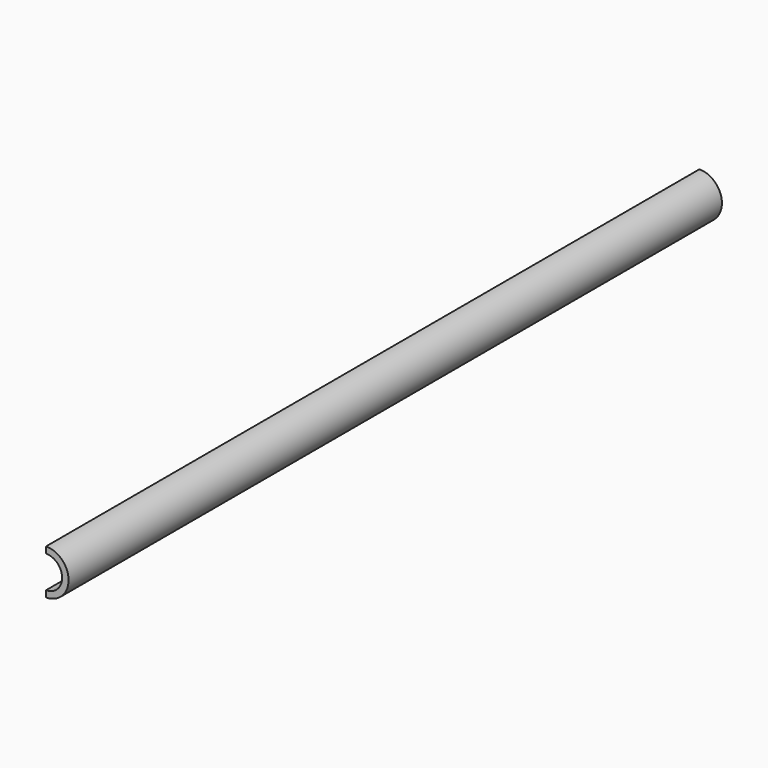
from build123d import *

# Parameters (mm, degrees)
F0_R     = 13.9954
F0_R_2   = 9.9949
F1_DEPTH = 508
F2_W     = 526.277456
F2_H     = 54.210538
F3_DEPTH = 25.4


with BuildPart() as f1:
    # F0 (on Front) → F1 (new body)
    with BuildSketch(Plane.XZ):
        Circle(F0_R)
        Circle(F0_R_2, mode=Mode.SUBTRACT)
    extrude(amount=F1_DEPTH)

    # F2 (on Right) → F3 (cut)
    with BuildSketch(Plane.YZ):
        with Locations((-250.438733, -3.165579)):
            Rectangle(F2_W, F2_H)
    extrude(amount=-F3_DEPTH, mode=Mode.SUBTRACT)


solid = f1.part
